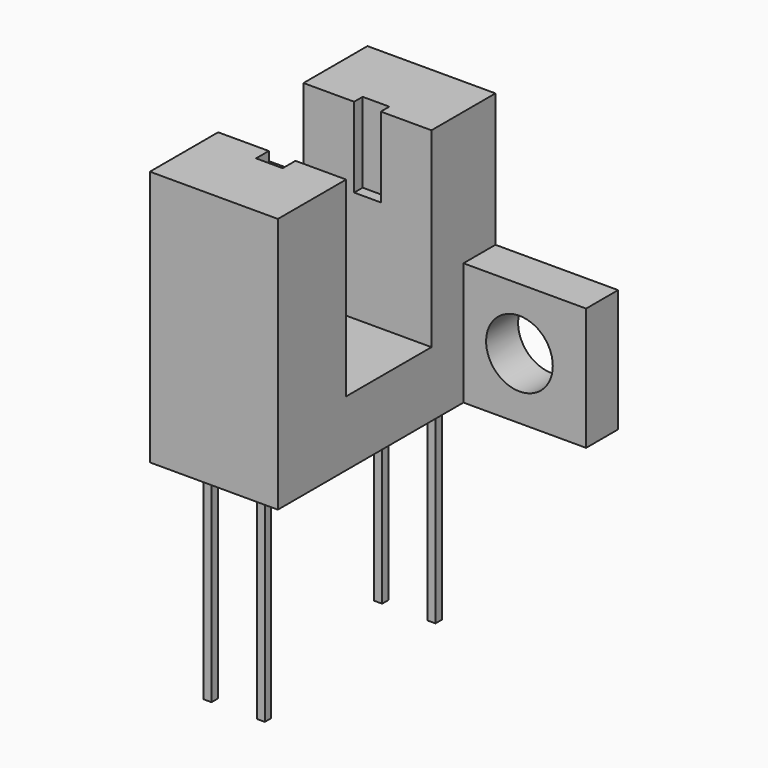
from build123d import *

# Parameters (mm, degrees)
F0_R     = 1.5875
F0_W     = 0.381
F0_H     = 9.906
F1_DEPTH = 127
F2_W     = 0.381
F2_H     = 9.906
F3_DEPTH = 127
F7_DEPTH = 127
F5_W     = 1.27
F5_H     = 3.81
F8_DEPTH = 3.175


with BuildPart() as f1:
    # F0 (on Front) → F1 (new body, symmetric)
    with BuildSketch(Plane.XZ):
        Polygon((-8.89, 2.921), (-8.89, -2.921), (-1.4605, -2.921), (-1.0795, -2.921), (1.0795, -2.921), (1.4605, -2.921), (8.89, -2.921), (8.89, 2.921), (3.048, 2.921), (3.048, 9.271), (-3.048, 9.271), (-3.048, 2.921), align=None)
        with Locations((-5.715, 0)):
            Circle(F0_R, mode=Mode.SUBTRACT)
        with Locations((5.715, 0)):
            Circle(F0_R, mode=Mode.SUBTRACT)
        with Locations((-1.27, -7.874)):
            Rectangle(F0_W, F0_H)
        with Locations((1.27, -7.874)):
            Rectangle(F0_W, F0_H)
    extrude(amount=F1_DEPTH, both=True)

    # F2 (on Right) → F3 (intersect, symmetric)
    with BuildSketch(Plane.YZ):
        Polygon((-8.89, 9.271), (-12.954, 9.271), (-12.954, -2.921), (-11.7475, -2.921), (-11.3665, -2.921), (-1.5875, -2.921), (-1.2065, -2.921), (0, -2.921), (0, 9.271), (-3.81, 9.271), (-3.81, 0.1778), (-8.89, 0.1778), align=None)
        with Locations((-1.397, -7.874)):
            Rectangle(F2_W, F2_H)
        with Locations((-11.557, -7.874)):
            Rectangle(F2_W, F2_H)
    extrude(amount=F3_DEPTH, both=True, mode=Mode.INTERSECT)

    # F6 (on Top) → F7 (intersect, symmetric)
    with BuildSketch(Plane.XY):
        Polygon((8.89, 0), (-8.89, 0), (-8.89, -1.905), (-3.048, -1.905), (-3.048, -12.954), (3.048, -12.954), (3.048, -1.905), (8.89, -1.905), align=None)
    extrude(amount=F7_DEPTH, both=True, mode=Mode.INTERSECT)

    # F5 (on plane+point) → F8 (cut, symmetric)
    with BuildSketch(Plane.XZ.offset(6.477)):
        with Locations((0, 7.366)):
            Rectangle(F5_W, F5_H)
    extrude(amount=F8_DEPTH, both=True, mode=Mode.SUBTRACT)


solid = f1.part
